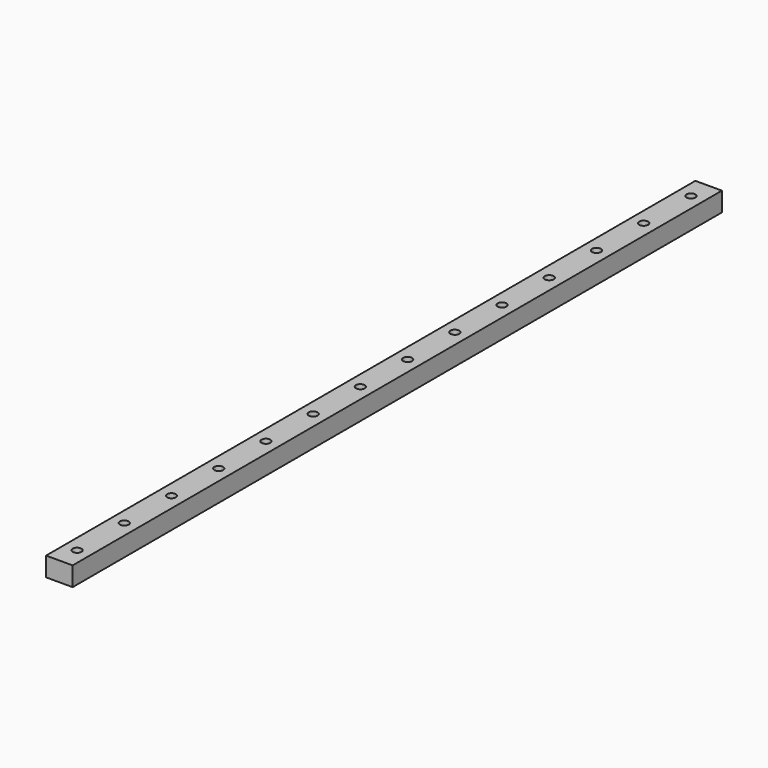
from build123d import *

# Parameters (mm, degrees)
SKETCH024_W            = 9
SKETCH024_H            = 275
PAD008_DEPTH           = 6.5
SKETCH025_R            = 1.5
POCKET016_DEPTH        = 6.5
LINEARPATTERN003_COUNT = 14
LINEARPATTERN003_PITCH = 20


with BuildPart() as part:
    # Sketch024 → Pad008 (new body)
    with BuildSketch(Plane.XY):
        with Locations((-4.5, 137.5)):
            Rectangle(SKETCH024_W, SKETCH024_H)
    extrude(amount=PAD008_DEPTH)

    # Sketch025 (on Face6 of Pad008) → Pocket016 (cut)
    with BuildSketch(Plane.XY.offset(6.5)):
        with Locations((-4.5, 7.5)):
            Circle(SKETCH025_R)
    pocket016 = extrude(amount=-POCKET016_DEPTH, mode=Mode.SUBTRACT)

    # LinearPattern003: Pocket016 ×14
    with Locations(*[(0, i * LINEARPATTERN003_PITCH, 0) for i in range(1, LINEARPATTERN003_COUNT)]):
        add(pocket016, mode=Mode.SUBTRACT)


solid = part.part
